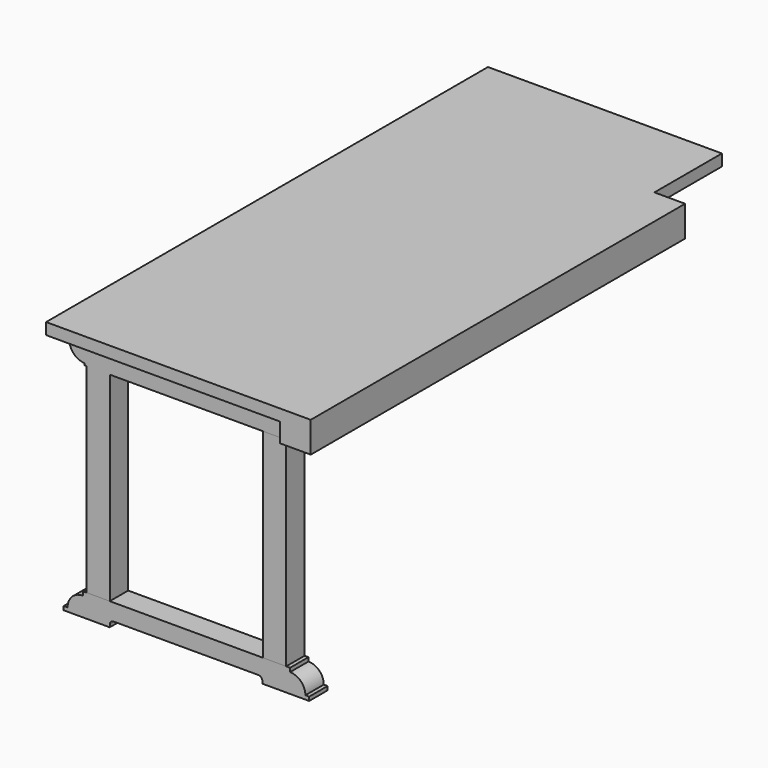
from build123d import *

# Parameters (mm, degrees)
F7_DEPTH      = 76.2
F0_W          = 774.7
F0_H          = 38.1
F8_DEPTH      = 1727.2
F8_DEPTH_BACK = 101.6
F1_W          = 101.6
F1_H          = 101.6
F9_DEPTH      = 101.6
F9_DEPTH_BACK = 1447.8
F10_W         = 76.2
F10_H         = 660.4
F11_DEPTH     = 76.2
F12_W         = 76.2
F12_H         = 660.4
F13_DEPTH     = 76.2
F15_DEPTH     = 76.2


with BuildPart() as f7:
    # F5 (on Front) → F7 (new body)
    with BuildSketch(Plane.XZ):
        with BuildLine():
            Line((50.8, -44.2195832729), (57.1505225604, -44.2195832729))
            ThreePointArc((57.1505225604, -44.2195832729), (71.7788939435, -80.119189599), (107.4706017971, -95.2477379158))
            Line((107.4706017971, -95.2477379158), (107.4706017971, -101.6))
            Line((107.4706017971, -101.6), (774.7, -101.6))
            Line((774.7, -101.6), (774.7, -38.1))
            Line((774.7, -38.1), (50.8, -38.1))
            Line((50.8, -38.1), (50.8, -44.2195832729))
        make_face()
    extrude(amount=F7_DEPTH)

    # F0 (on Front) → F8 (join, two sides)
    with BuildSketch(Plane.XZ) as f8_sk:
        with Locations((387.35, -19.05)):
            Rectangle(F0_W, F0_H)
    extrude(amount=-F8_DEPTH)
    extrude(f8_sk.sketch, amount=F8_DEPTH_BACK)

    # F1 (on Front) → F9 (join, two sides)
    with BuildSketch(Plane.XZ) as f9_sk:
        with Locations((825.5, -50.8)):
            Rectangle(F1_W, F1_H)
    extrude(amount=F9_DEPTH)
    extrude(f9_sk.sketch, amount=-F9_DEPTH_BACK)

    # F10 (on Front) → F11 (join)
    with BuildSketch(Plane.XZ):
        with Locations((152.4, -431.8)):
            Rectangle(F10_W, F10_H)
    extrude(amount=F11_DEPTH)


with BuildPart() as f13:
    # F12 (on face) → F13 (new body)
    with BuildSketch(Plane.XZ.offset(76.2)):
        with Locations((736.6, -431.8)):
            Rectangle(F12_W, F12_H)
    extrude(amount=-F13_DEPTH)


with BuildPart() as f15:
    # F14 (on face) → F15 (new body)
    with BuildSketch(Plane.XZ.offset(76.2)):
        with BuildLine():
            Line((114.3, -762), (101.6, -762))
            Line((101.6, -762), (101.6, -774.7))
            ThreePointArc((101.6, -774.7), (65.6789755157, -789.5789755157), (50.8, -825.5))
            Line((50.8, -825.5), (38.1, -825.5))
            Line((38.1, -825.5), (38.1, -838.2))
            Line((38.1, -838.2), (190.5, -838.2))
            Line((190.5, -838.2), (190.5, -829.8366857529))
            ThreePointArc((190.5, -829.8366857529), (194.2197438789, -820.8564296318), (203.2, -817.1366857529))
            Line((203.2, -817.1366857529), (682.8407261848, -817.1366857529))
            ThreePointArc((682.8407261848, -817.1366857529), (691.8209823059, -820.8564296318), (695.5407261848, -829.8366857529))
            Line((695.5407261848, -829.8366857529), (695.5407261848, -838.2))
            Line((695.5407261848, -838.2), (850.9, -838.2))
            Line((850.9, -838.2), (850.9, -825.5))
            Line((850.9, -825.5), (838.2, -825.5))
            ThreePointArc((838.2, -825.5), (823.3210244843, -789.5789755157), (787.4, -774.7))
            Line((787.4, -774.7), (787.4, -762))
            Line((787.4, -762), (444.5, -762))
            Line((444.5, -762), (190.5, -762))
            Line((190.5, -762), (114.3, -762))
        make_face()
    extrude(amount=-F15_DEPTH)


solid = Compound([f7.part, f13.part, f15.part])
